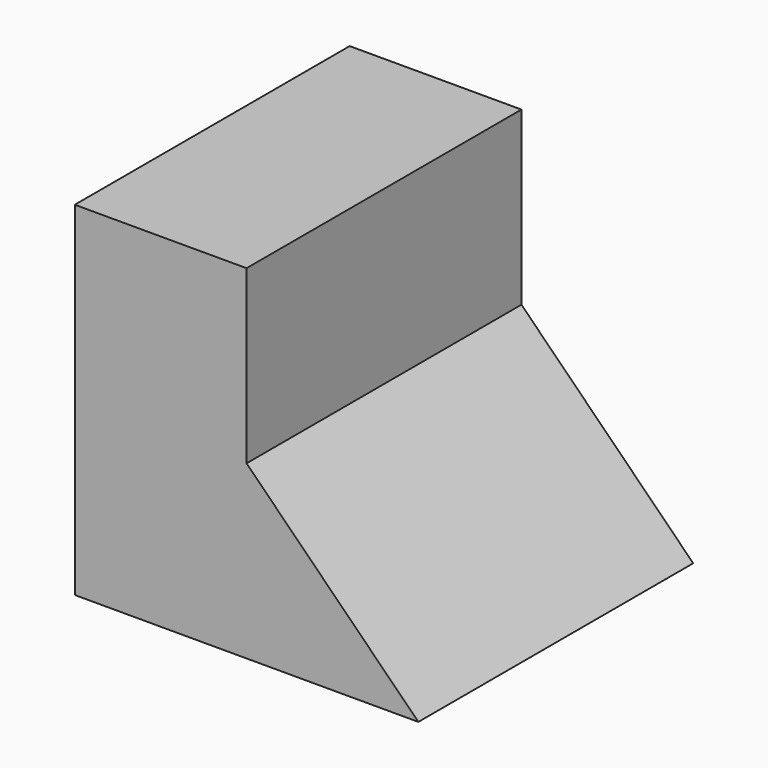
from build123d import *

# Parameters (mm, degrees)
F1_DEPTH = 50.8
F3_DEPTH = 50.8


with BuildPart() as f1:
    # F0 (on Front) → F1 (new body)
    with BuildSketch(Plane.XZ):
        Polygon((-50.8, 0), (0, 0), (0, 50.8), (-25.4, 50.8), (-50.8, 50.8), align=None)
    extrude(amount=F1_DEPTH)

    # F2 (on Front) → F3 (cut)
    with BuildSketch(Plane.XZ):
        Polygon((-25.4, 25.4), (0, 0), (0, 25.4), (0, 50.8), (-25.4, 50.8), align=None)
    extrude(amount=F3_DEPTH, mode=Mode.SUBTRACT)


solid = f1.part
